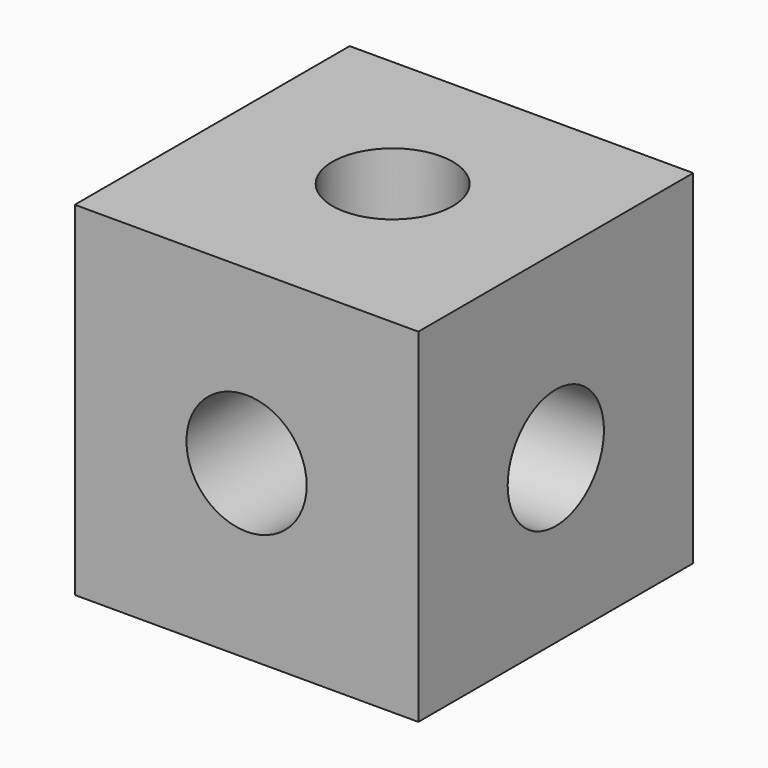
from build123d import *

# Parameters (mm, degrees)
F0_W     = 100
F0_H     = 100
F1_DEPTH = 50
F2_R     = 17.5
F3_DEPTH = 100
F4_R     = 17.5
F5_DEPTH = 100
F6_R     = 17.5
F7_DEPTH = 100


with BuildPart() as f1:
    # F0 (on Front) → F1 (new body, symmetric)
    with BuildSketch(Plane.XZ):
        Rectangle(F0_W, F0_H)
    extrude(amount=F1_DEPTH, both=True)

    # F2 (on face) → F3 (cut, through all)
    with BuildSketch(Plane.XZ.offset(50)):
        Circle(F2_R)
    extrude(amount=-F3_DEPTH, mode=Mode.SUBTRACT)

    # F4 (on face) → F5 (cut, through all)
    with BuildSketch(Plane(origin=(-50, 0, 0), x_dir=(0, -1, 0), z_dir=(-1, 0, 0))):
        with Locations((0, -2.6463560642)):
            Circle(F4_R)
    extrude(amount=-F5_DEPTH, mode=Mode.SUBTRACT)

    # F6 (on face) → F7 (cut, through all)
    with BuildSketch(Plane.XY.offset(50)):
        with Locations((0, 3.1443416158)):
            Circle(F6_R)
    extrude(amount=-F7_DEPTH, mode=Mode.SUBTRACT)


solid = f1.part
